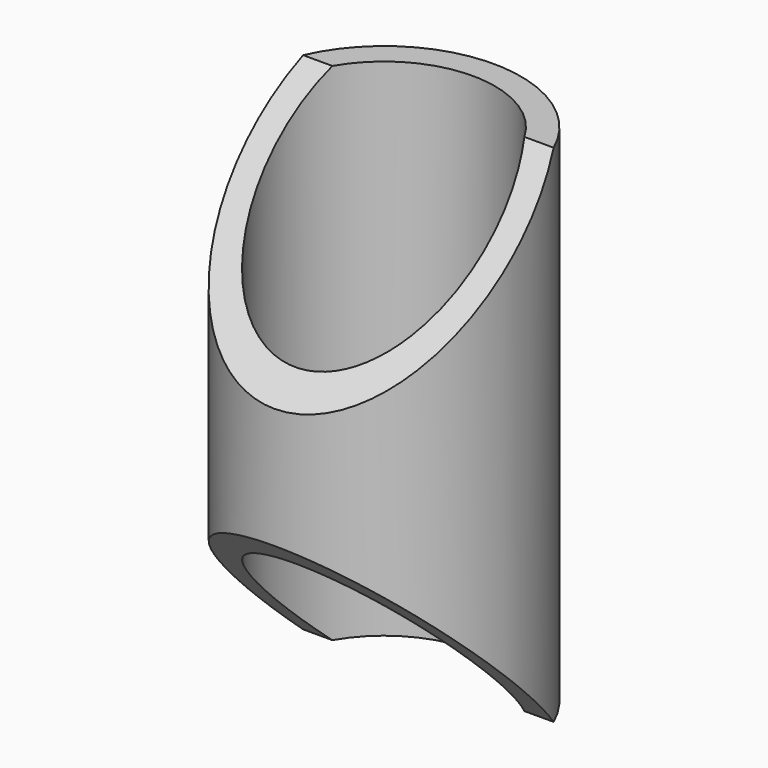
from build123d import *

# Parameters (mm, degrees)
F0_R     = 21
F0_R_2   = 17
F1_DEPTH = 38.75
F3_DEPTH = 21


with BuildPart() as f1:
    # F0 (on Top) → F1 (new body, symmetric)
    with BuildSketch(Plane.XY):
        Circle(F0_R)
        Circle(F0_R_2, mode=Mode.SUBTRACT)
    extrude(amount=F1_DEPTH, both=True)

    # F2 (on Right) → F3 (cut, symmetric)
    with BuildSketch(Plane.YZ):
        Polygon((-21, 9.25), (8.5, 38.75), (21, 38.75), (21, 48.75), (-21, 48.75), align=None)
        Polygon((21, -38.75), (8.5, -38.75), (-21, -9.25), (-21, -48.75), (21, -48.75), align=None)
    extrude(amount=F3_DEPTH, both=True, mode=Mode.SUBTRACT)


solid = f1.part
